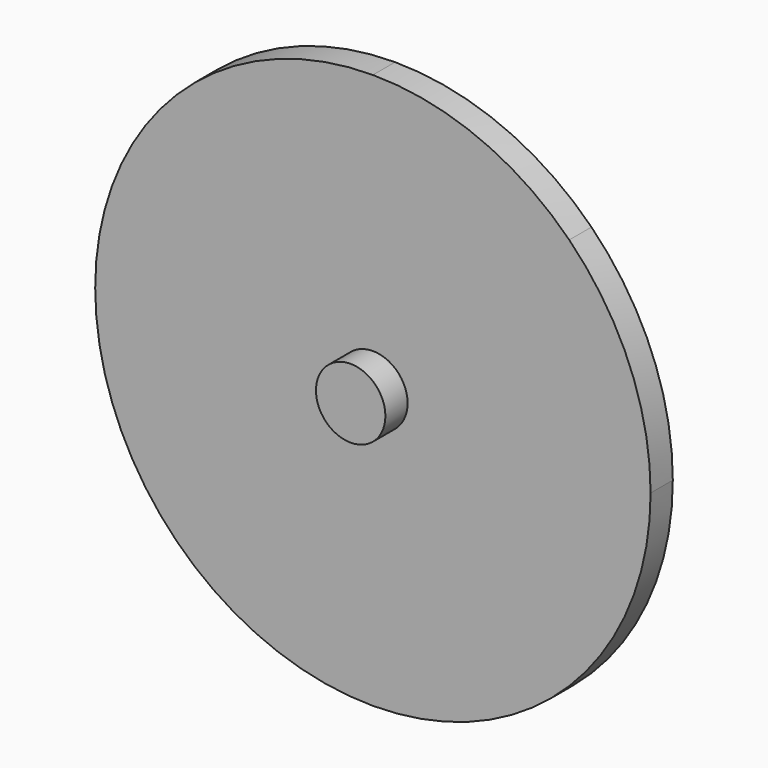
from build123d import *

# Parameters (mm, degrees)
F1_DEPTH = 1.27
F2_R     = 1.5875
F3_DEPTH = 1.27


with BuildPart() as f1:
    # F0 (on Front) → F1 (new body)
    with BuildSketch(Plane.XZ):
        with BuildLine():
            ThreePointArc((-6.167664918, -12.7), (-1.307585327, -11.7332700629), (2.8125912031, -8.9802561211))
            Line((2.8125912031, -8.9802561211), (1.914565591, -8.082230509))
            ThreePointArc((1.914565591, -8.082230509), (-1.7935932861, -10.5599430566), (-6.167664918, -11.43))
            Line((-6.167664918, -11.43), (-6.167664918, -12.7))
        make_face()
        with BuildLine():
            ThreePointArc((-15.1479210391, -8.9802561211), (-11.027744509, -11.7332700629), (-6.167664918, -12.7))
            Line((-6.167664918, -12.7), (-6.167664918, -11.43))
            ThreePointArc((-6.167664918, -11.43), (-10.5417365499, -10.5599430566), (-14.249895427, -8.082230509))
            Line((-14.249895427, -8.082230509), (-15.1479210391, -8.9802561211))
        make_face()
        with BuildLine():
            Line((5.262335082, 0), (6.532335082, 0))
            ThreePointArc((6.532335082, 0), (5.5656051449, 4.860079591), (2.8125912031, 8.9802561211))
            Line((2.8125912031, 8.9802561211), (1.914565591, 8.082230509))
            ThreePointArc((1.914565591, 8.082230509), (4.3922781386, 4.3740716319), (5.262335082, 0))
        make_face()
        with BuildLine():
            ThreePointArc((2.8125912031, -8.9802561211), (5.5656051449, -4.860079591), (6.532335082, 0))
            Line((6.532335082, 0), (5.262335082, 0))
            ThreePointArc((5.262335082, 0), (4.3922781386, -4.3740716319), (1.914565591, -8.082230509))
            Line((1.914565591, -8.082230509), (2.8125912031, -8.9802561211))
        make_face()
        with BuildLine():
            Line((-6.167664918, 11.43), (-6.167664918, 12.7))
            ThreePointArc((-6.167664918, 12.7), (-11.027744509, 11.7332700629), (-15.1479210391, 8.9802561211))
            Line((-15.1479210391, 8.9802561211), (-14.249895427, 8.082230509))
            ThreePointArc((-14.249895427, 8.082230509), (-10.5417365499, 10.5599430566), (-6.167664918, 11.43))
        make_face()
        with BuildLine():
            Line((1.914565591, 8.082230509), (2.8125912031, 8.9802561211))
            ThreePointArc((2.8125912031, 8.9802561211), (-1.307585327, 11.7332700629), (-6.167664918, 12.7))
            Line((-6.167664918, 12.7), (-6.167664918, 11.43))
            ThreePointArc((-6.167664918, 11.43), (-1.7935932861, 10.5599430566), (1.914565591, 8.082230509))
        make_face()
        with BuildLine():
            ThreePointArc((-18.867664918, 0), (-17.9009349809, -4.860079591), (-15.1479210391, -8.9802561211))
            Line((-15.1479210391, -8.9802561211), (-14.249895427, -8.082230509))
            ThreePointArc((-14.249895427, -8.082230509), (-16.7276079746, -4.3740716319), (-17.597664918, 0))
            Line((-17.597664918, 0), (-18.867664918, 0))
        make_face()
        with BuildLine():
            Line((-14.249895427, 8.082230509), (-15.1479210391, 8.9802561211))
            ThreePointArc((-15.1479210391, 8.9802561211), (-17.9009349809, 4.860079591), (-18.867664918, 0))
            Line((-18.867664918, 0), (-17.597664918, 0))
            ThreePointArc((-17.597664918, 0), (-16.7276079746, 4.3740716319), (-14.249895427, 8.082230509))
        make_face()
        with BuildLine():
            Line((-6.167664918, 0), (1.914565591, 8.082230509))
            ThreePointArc((1.914565591, 8.082230509), (-1.7935932861, 10.5599430566), (-6.167664918, 11.43))
            Line((-6.167664918, 11.43), (-6.167664918, 0))
        make_face()
        with BuildLine():
            Line((-6.167664918, 0), (5.262335082, 0))
            ThreePointArc((5.262335082, 0), (4.3922781386, 4.3740716319), (1.914565591, 8.082230509))
            Line((1.914565591, 8.082230509), (-6.167664918, 0))
        make_face()
        with BuildLine():
            ThreePointArc((1.914565591, -8.082230509), (4.3922781386, -4.3740716319), (5.262335082, 0))
            Line((5.262335082, 0), (-6.167664918, 0))
            Line((-6.167664918, 0), (1.914565591, -8.082230509))
        make_face()
        with BuildLine():
            ThreePointArc((-6.167664918, -11.43), (-1.7935932861, -10.5599430566), (1.914565591, -8.082230509))
            Line((1.914565591, -8.082230509), (-6.167664918, 0))
            Line((-6.167664918, 0), (-6.167664918, -11.43))
        make_face()
        with BuildLine():
            Line((-6.167664918, -11.43), (-6.167664918, 0))
            Line((-6.167664918, 0), (-14.249895427, -8.082230509))
            ThreePointArc((-14.249895427, -8.082230509), (-10.5417365499, -10.5599430566), (-6.167664918, -11.43))
        make_face()
        with BuildLine():
            Line((-14.249895427, 8.082230509), (-6.167664918, 0))
            Line((-6.167664918, 0), (-6.167664918, 11.43))
            ThreePointArc((-6.167664918, 11.43), (-10.5417365499, 10.5599430566), (-14.249895427, 8.082230509))
        make_face()
        with BuildLine():
            Line((-17.597664918, 0), (-6.167664918, 0))
            Line((-6.167664918, 0), (-14.249895427, 8.082230509))
            ThreePointArc((-14.249895427, 8.082230509), (-16.7276079746, 4.3740716319), (-17.597664918, 0))
        make_face()
        with BuildLine():
            Line((-14.249895427, -8.082230509), (-6.167664918, 0))
            Line((-6.167664918, 0), (-17.597664918, 0))
            ThreePointArc((-17.597664918, 0), (-16.7276079746, -4.3740716319), (-14.249895427, -8.082230509))
        make_face()
    extrude(amount=-F1_DEPTH)

    # F2 (on Front) → F3 (join)
    with BuildSketch(Plane.XZ):
        with Locations((-6.167664918, 0)):
            Circle(F2_R)
    extrude(amount=F3_DEPTH)


solid = f1.part
